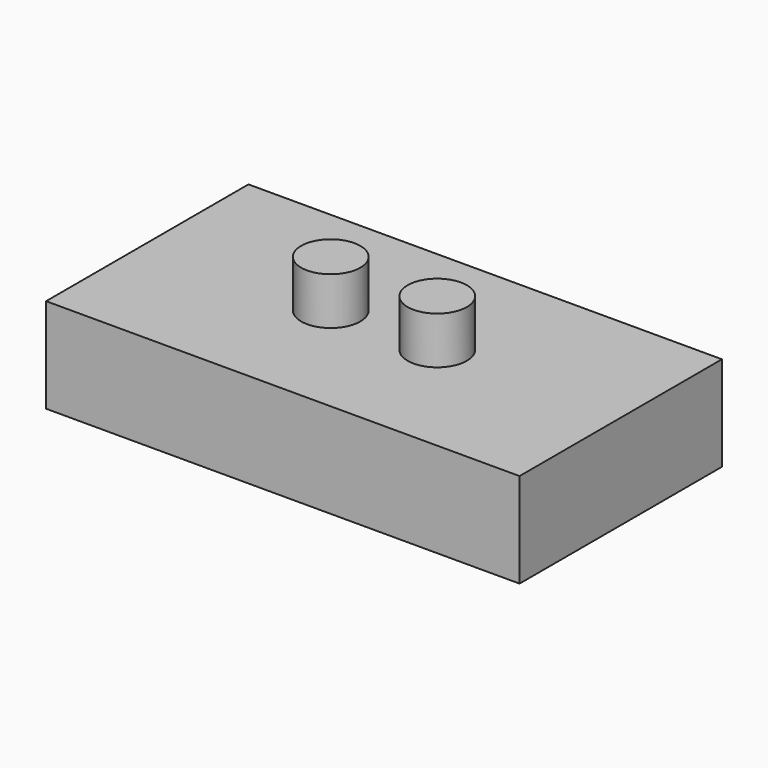
from build123d import *

# Parameters (mm, degrees)
F0_W     = 127
F0_H     = 67.856542
F0_R     = 7.9375
F1_DEPTH = 25.4
F2_DEPTH = 12.7


with BuildPart() as f1:
    # F0 (on Top) → F1 (new body)
    with BuildSketch(Plane.XY):
        Rectangle(F0_W, F0_H)
        with Locations((-14.28496, 0)):
            Circle(F0_R, mode=Mode.SUBTRACT)
        with BuildLine():
            ThreePointArc((22.22246, 0), (14.28496, -7.9375), (6.34746, 0))
            ThreePointArc((6.34746, 0), (14.28496, 7.9375), (22.22246, 0))
        make_face(mode=Mode.SUBTRACT)
        with Locations((-14.28496, 0)):
            Circle(F0_R)
        with BuildLine():
            ThreePointArc((22.22246, 0), (14.28496, 7.9375), (6.34746, 0))
            ThreePointArc((6.34746, 0), (14.28496, -7.9375), (22.22246, 0))
        make_face()
    extrude(amount=-F1_DEPTH)

    # F0 (on Top) → F2 (join)
    with BuildSketch(Plane.XY):
        with Locations((-14.28496, 0)):
            Circle(F0_R)
        with BuildLine():
            ThreePointArc((22.22246, 0), (14.28496, 7.9375), (6.34746, 0))
            ThreePointArc((6.34746, 0), (14.28496, -7.9375), (22.22246, 0))
        make_face()
    extrude(amount=F2_DEPTH)


solid = f1.part
